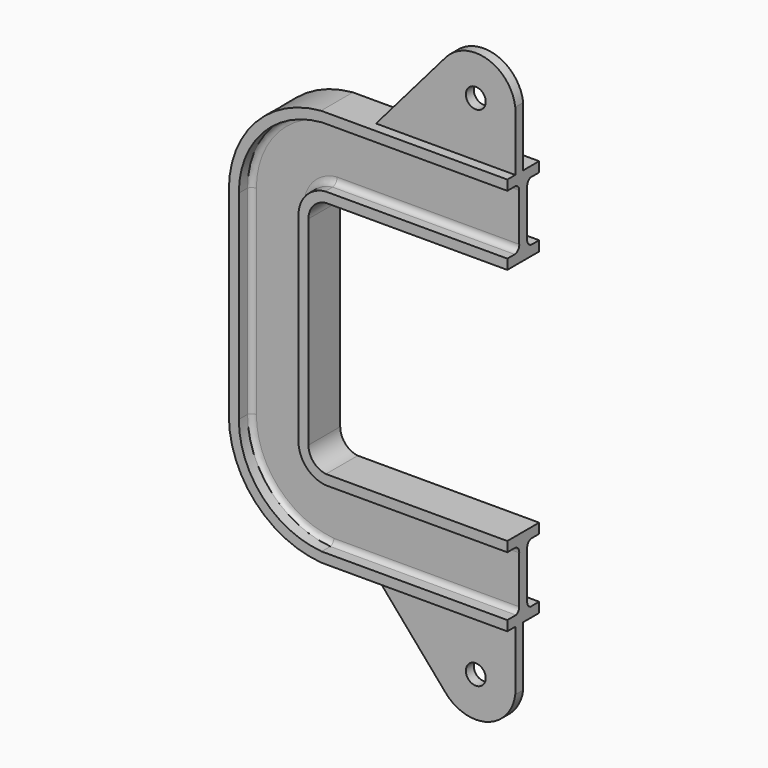
from build123d import *

# Parameters (mm, degrees)
F4_R     = 5
F5_DEPTH = 5


with BuildPart() as f2:
    # F2: sweep along a path in F0
    with BuildLine(Plane.XZ) as f2_path:
        Line((0, 60), (-91.2108307898, 60))
        ThreePointArc((-91.2108307898, 60), (-97.4869322121, 56.7027425496), (-100, 50.0735762332))
        Line((-100, 50.0735762332), (-100, 0))
    # F1 (on Right) → F2 (sweep)
    with BuildSketch(Plane.YZ):
        with BuildLine():
            ThreePointArc((5.380186019, 65), (3.2291666677, 66.0215138208), (2.5, 68.2883818597))
            Line((2.5, 68.2883818597), (2.5, 92.1712384681))
            ThreePointArc((2.5, 92.1712384681), (3.0508000336, 93.9036990088), (4.5009463499, 95))
            Line((4.5009463499, 95), (10, 95))
            Line((10, 95), (10, 100))
            Line((10, 100), (0, 100))
            Line((0, 100), (-10, 100))
            Line((-10, 100), (-10, 95))
            Line((-10, 95), (-4.5009463499, 95))
            ThreePointArc((-4.5009463499, 95), (-3.0508000336, 93.9036990088), (-2.5, 92.1712384681))
            Line((-2.5, 92.1712384681), (-2.5, 68.2883818597))
            ThreePointArc((-2.5, 68.2883818597), (-3.2291666677, 66.0215138208), (-5.380186019, 65))
            Line((-5.380186019, 65), (-10, 65))
            Line((-10, 65), (-10, 60))
            Line((-10, 60), (0, 60))
            Line((0, 60), (10, 60))
            Line((10, 60), (10, 65))
            Line((10, 65), (5.380186019, 65))
        make_face()
    sweep(path=f2_path.line, transition=Transition.RIGHT)

    # F3: F2 across plane


with BuildPart() as f2_1:
    add(f2.part)
    add(f2.part.mirror(Plane.XY))

    # F4 (on Front) → F5 (join)
    with BuildSketch(Plane.XZ):
        with BuildLine():
            Line((-70, 100), (0, 100))
            Line((0, 100), (0, 130))
            ThreePointArc((0, 130), (-14.0470863479, 146.6945125995), (-35, 140.6115203021))
            Line((-35, 140.6115203021), (-70, 100))
        make_face()
        with Locations((-19.8499687115, 127.5548533477)):
            Circle(F4_R, mode=Mode.SUBTRACT)
        with BuildLine():
            ThreePointArc((-35, -140.6115203021), (-14.0470863479, -146.6945125995), (0, -130))
            Line((0, -130), (0, -100))
            Line((0, -100), (-70, -100))
            Line((-70, -100), (-35, -140.6115203021))
        make_face()
        with Locations((-19.8499687115, -127.5548533477)):
            Circle(F4_R, mode=Mode.SUBTRACT)
    extrude(amount=F5_DEPTH)


solid = f2_1.part
